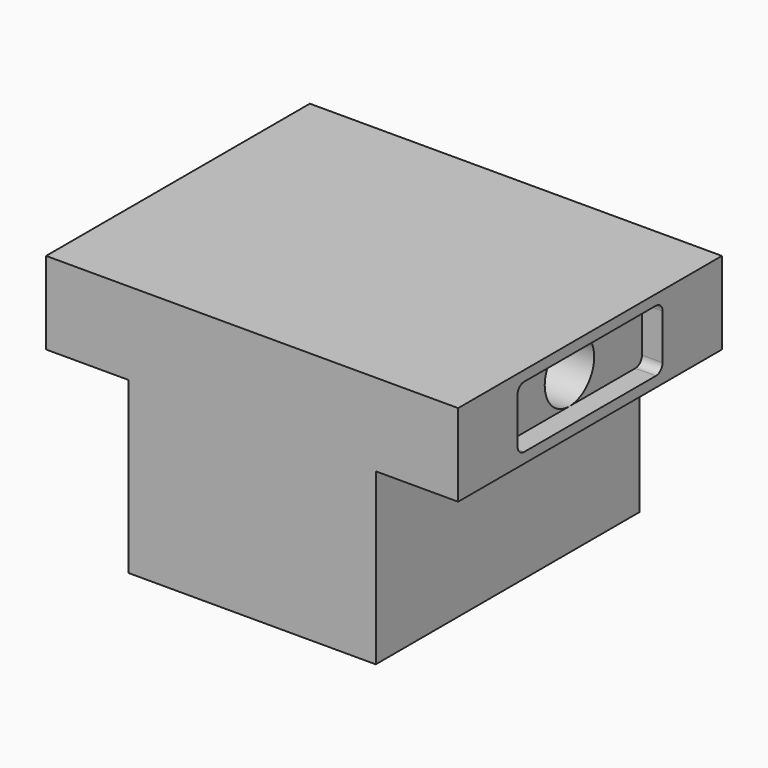
from build123d import *

# Parameters (mm, degrees)
F1_DEPTH = 50.8
F2_R     = 4.7625
F3_DEPTH = 12.7
F5_DEPTH = 3.175


with BuildPart() as f1:
    # F0 (on Front) → F1 (new body)
    with BuildSketch(Plane.XZ):
        Polygon((38.1, -15.875), (38.1, -3.175), (-25.4, -3.175), (-25.4, -15.875), (-12.7, -15.875), (-12.7, -22.225), (-12.7, -42.06454), (25.4, -42.06454), (25.4, -22.225), (25.4, -15.875), align=None)
    extrude(amount=F1_DEPTH)

    # F2 (on face) → F3 (cut)
    with BuildSketch(Plane.YZ.offset(38.1)):
        with Locations((-25.4, -9.525)):
            Circle(F2_R)
    extrude(amount=-F3_DEPTH, mode=Mode.SUBTRACT)

    # F4 (on face) → F5 (cut)
    with BuildSketch(Plane.YZ.offset(38.1)):
        with BuildLine():
            Line((-38.1, -14.2875), (-25.4, -14.2875))
            Line((-25.4, -14.2875), (-12.7, -14.2875))
            ThreePointArc((-12.7, -14.2875), (-11.801974, -13.915526), (-11.43, -13.0175))
            Line((-11.43, -13.0175), (-11.43, -9.8425))
            Line((-11.43, -9.8425), (-11.43, -6.0325))
            ThreePointArc((-11.43, -6.0325), (-11.801974, -5.134474), (-12.7, -4.7625))
            Line((-12.7, -4.7625), (-18.372404, -4.7625))
            Line((-18.372404, -4.7625), (-25.4, -4.7625))
            Line((-25.4, -4.7625), (-38.1, -4.7625))
            ThreePointArc((-38.1, -4.7625), (-38.998026, -5.134474), (-39.37, -6.0325))
            Line((-39.37, -6.0325), (-39.37, -13.0175))
            ThreePointArc((-39.37, -13.0175), (-38.998026, -13.915526), (-38.1, -14.2875))
        make_face()
        with BuildLine():
            Line((-38.1, -14.2875), (-25.4, -14.2875))
            Line((-25.4, -14.2875), (-12.7, -14.2875))
            ThreePointArc((-12.7, -14.2875), (-11.801974, -13.915526), (-11.43, -13.0175))
            Line((-11.43, -13.0175), (-11.43, -9.8425))
            Line((-11.43, -9.8425), (-11.43, -6.0325))
            ThreePointArc((-11.43, -6.0325), (-11.801974, -5.134474), (-12.7, -4.7625))
            Line((-12.7, -4.7625), (-18.372404, -4.7625))
            Line((-18.372404, -4.7625), (-25.4, -4.7625))
            Line((-25.4, -4.7625), (-38.1, -4.7625))
            ThreePointArc((-38.1, -4.7625), (-38.998026, -5.134474), (-39.37, -6.0325))
            Line((-39.37, -6.0325), (-39.37, -13.0175))
            ThreePointArc((-39.37, -13.0175), (-38.998026, -13.915526), (-38.1, -14.2875))
        make_face()
    extrude(amount=-F5_DEPTH, mode=Mode.SUBTRACT)


solid = f1.part
